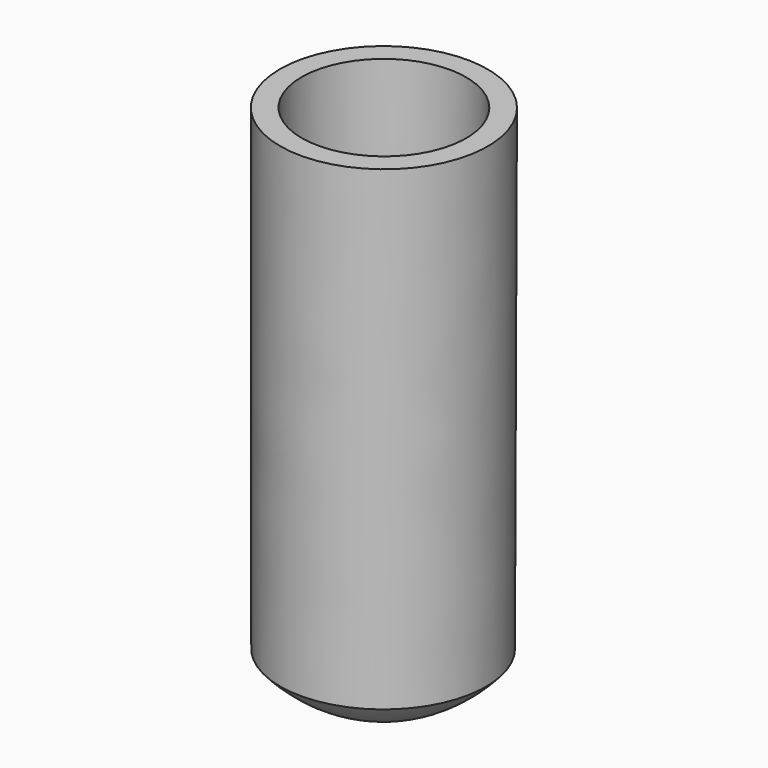
from build123d import *

# Parameters (mm, degrees)
F2_T = -2.54


with BuildPart() as f1:
    # F0 (on Front) → F1 (revolve)
    with BuildSketch(Plane.XZ):
        with BuildLine():
            Line((-0.1133669816, -16.5571088695), (0, 45.0412785871))
            Line((0, 45.0412785871), (-12.192, 45.0412785871))
            Line((-12.192, 45.0412785871), (-12.192, -10.8056425278))
            ThreePointArc((-12.192, -10.8056425278), (-6.7512667367, -14.9384581413), (-0.1133669816, -16.5571088695))
        make_face()
    revolve(axis=Axis((-0.0566834908, 0, 14.2420848588), (-0.0018404181, 0, -0.9999983064)))

    # F2
    f2_openings = [f1.faces().sort_by_distance(p)[0] for p in [
        (6.095959, 0, 45.01884),
    ]]
    offset(amount=F2_T, openings=f2_openings, kind=Kind.INTERSECTION)


solid = f1.part
